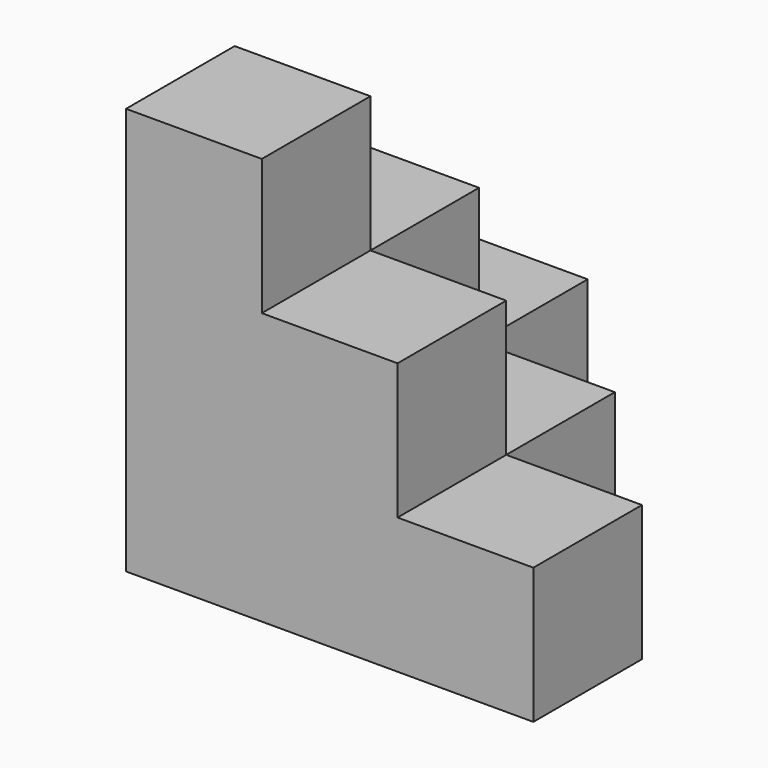
from build123d import *

# Parameters (mm, degrees)
BOX_W        = 10
BOX_H        = 10
BOX_DEPTH    = 30
BOX001_W     = 10
BOX001_H     = 10
BOX001_DEPTH = 20
BOX002_W     = 10
BOX002_H     = 10
BOX002_DEPTH = 20
BOX003_W     = 10
BOX003_H     = 10
BOX003_DEPTH = 10
BOX004_W     = 10
BOX004_H     = 10
BOX004_DEPTH = 10
BOX005_W     = 10
BOX005_H     = 10
BOX005_DEPTH = 10


with BuildPart() as cube:
    # Box → Box (new body)
    with BuildSketch(Plane.XY):
        with Locations((5, 5)):
            Rectangle(BOX_W, BOX_H)
    extrude(amount=BOX_DEPTH)


with BuildPart() as cube001:
    # Box001 → Box001 (new body)
    with BuildSketch(Plane(origin=(10, 0, 0), x_dir=(1, 0, 0), z_dir=(0, 0, 1))):
        with Locations((5, 5)):
            Rectangle(BOX001_W, BOX001_H)
    extrude(amount=BOX001_DEPTH)


with BuildPart() as cube002:
    # Box002 → Box002 (new body)
    with BuildSketch(Plane(origin=(0, 10, 0), x_dir=(1, 0, 0), z_dir=(0, 0, 1))):
        with Locations((5, 5)):
            Rectangle(BOX002_W, BOX002_H)
    extrude(amount=BOX002_DEPTH)


with BuildPart() as cube003:
    # Box003 → Box003 (new body)
    with BuildSketch(Plane(origin=(20, 0, 0), x_dir=(1, 0, 0), z_dir=(0, 0, 1))):
        with Locations((5, 5)):
            Rectangle(BOX003_W, BOX003_H)
    extrude(amount=BOX003_DEPTH)


with BuildPart() as cube004:
    # Box004 → Box004 (new body)
    with BuildSketch(Plane(origin=(0, 20, 0), x_dir=(1, 0, 0), z_dir=(0, 0, 1))):
        with Locations((5, 5)):
            Rectangle(BOX004_W, BOX004_H)
    extrude(amount=BOX004_DEPTH)


with BuildPart() as fusion:
    # Box005 → Box005 (new body)
    with BuildSketch(Plane(origin=(10, 10, 0), x_dir=(1, 0, 0), z_dir=(0, 0, 1))):
        with Locations((5, 5)):
            Rectangle(BOX005_W, BOX005_H)
    extrude(amount=BOX005_DEPTH)

    # Fusion: union Cube, Cube001, Cube002, Cube003, Cube004
    add(cube.part)
    add(cube001.part)
    add(cube002.part)
    add(cube003.part)
    add(cube004.part)


solid = fusion.part
